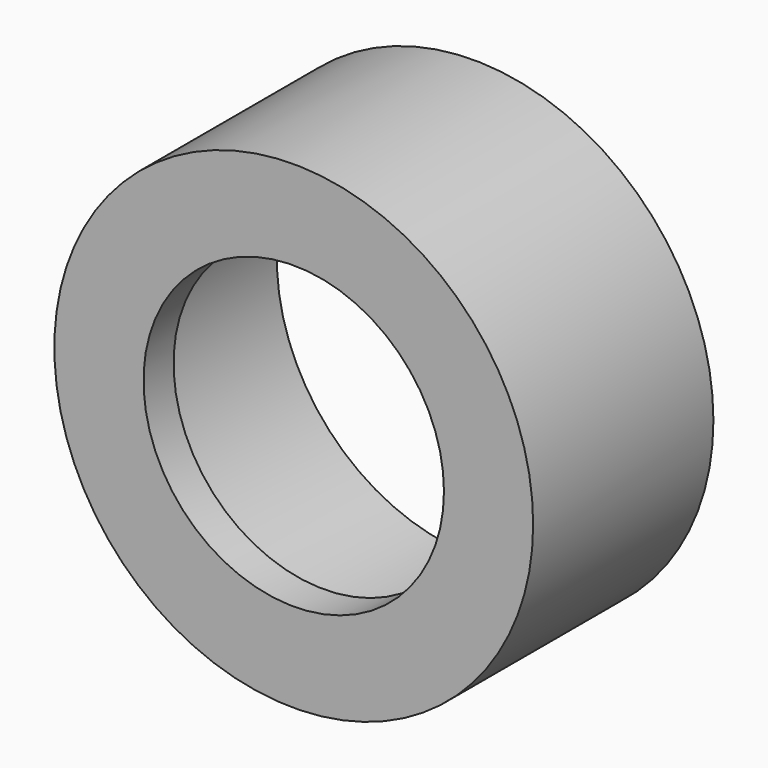
from build123d import *

# Parameters (mm, degrees)
SKETCH042_R   = 16.66875
PAD040_DEPTH  = 15.875
SKETCH036_R   = 20.240625
SKETCH036_R_2 = 12.7
PAD042_DEPTH  = 19.05


with BuildPart() as body042:
    # Sketch042 → Pad040 (new body)
    with BuildSketch(Plane.XZ):
        Circle(SKETCH042_R)
    extrude(amount=PAD040_DEPTH)


with BuildPart() as cut033:
    # Sketch036 → Pad042 (new body)
    with BuildSketch(Plane.XZ):
        Circle(SKETCH036_R)
        Circle(SKETCH036_R_2, mode=Mode.SUBTRACT)
    extrude(amount=PAD042_DEPTH)

    # Cut033: cut Body042
    add(body042.part, mode=Mode.SUBTRACT)


with BuildPart() as cut033_1:
    # Cut033 placement: moved
    add(cut033.part.moved(Location((0, -29.37, 0))))


solid = cut033_1.part
